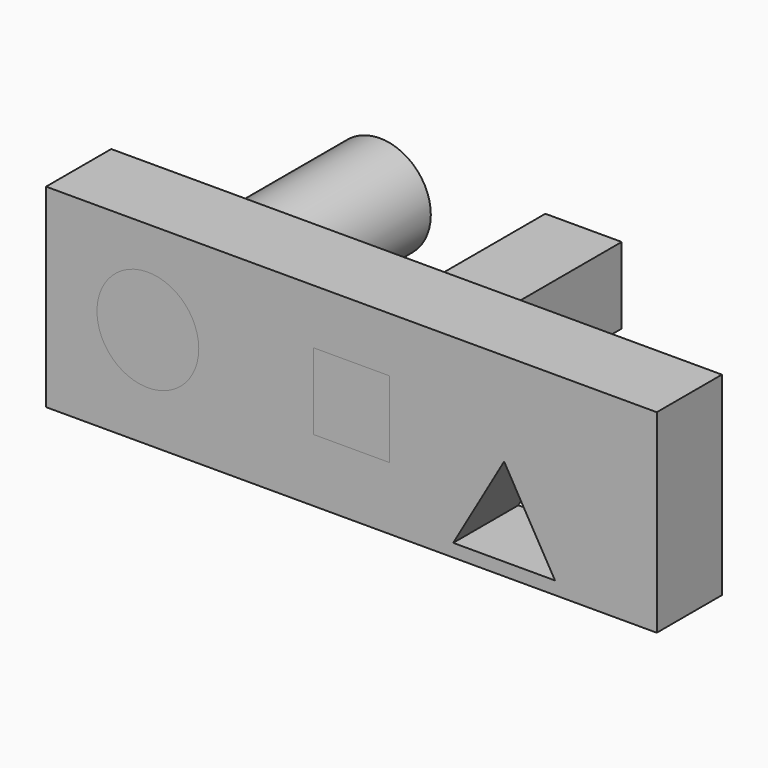
from build123d import *

# Parameters (mm, degrees)
F0_R     = 12.7
F1_DEPTH = 20.32
F2_DEPTH = 52.07
F3_DEPTH = 20.32


with BuildPart() as f1:
    # F0 (on Front) → F1 (new body)
    with BuildSketch(Plane.XZ):
        Polygon((44.45, -25.2242535353), (44.45, 0), (44.45, 23.2269223779), (-107.95, 23.2269223779), (-107.95, -25.2242535353), align=None)
        Polygon((-6.35, -21.9970452561), (6.35, 0), (19.05, -21.9970452561), align=None, mode=Mode.SUBTRACT)
        with Locations((-82.55, 0)):
            Circle(F0_R, mode=Mode.SUBTRACT)
        Polygon((-22.225, 9.525), (-22.225, 0), (-22.225, -9.525), (-41.275, -9.525), (-41.275, 0), (-41.275, 9.525), align=None, mode=Mode.SUBTRACT)
    extrude(amount=F1_DEPTH)


with BuildPart() as f2:
    # F0 (on Front) → F2 (new body)
    with BuildSketch(Plane.XZ):
        with Locations((-82.55, 0)):
            Circle(F0_R)
    extrude(amount=-F2_DEPTH)


with BuildPart() as f2b:
    # F0 (on Front) → F2, piece 2 (new body)
    with BuildSketch(Plane.XZ):
        Polygon((-22.225, -9.525), (-22.225, 0), (-31.75, 0), (-41.275, 0), (-41.275, -9.525), align=None)
        Polygon((-31.75, 0), (-22.225, 0), (-22.225, 9.525), (-41.275, 9.525), (-41.275, 0), align=None)
    extrude(amount=-F2_DEPTH)


with BuildPart() as f3:
    # F0 (on Front) → F3 (new body)
    with BuildSketch(Plane.XZ):
        with Locations((-82.55, 0)):
            Circle(F0_R)
    extrude(amount=F3_DEPTH)


with BuildPart() as f3b:
    # F0 (on Front) → F3, piece 2 (new body)
    with BuildSketch(Plane.XZ):
        Polygon((-22.225, -9.525), (-22.225, 0), (-31.75, 0), (-41.275, 0), (-41.275, -9.525), align=None)
        Polygon((-31.75, 0), (-22.225, 0), (-22.225, 9.525), (-41.275, 9.525), (-41.275, 0), align=None)
    extrude(amount=F3_DEPTH)


solid = Compound([f1.part, f2.part, f2b.part, f3.part, f3b.part])
